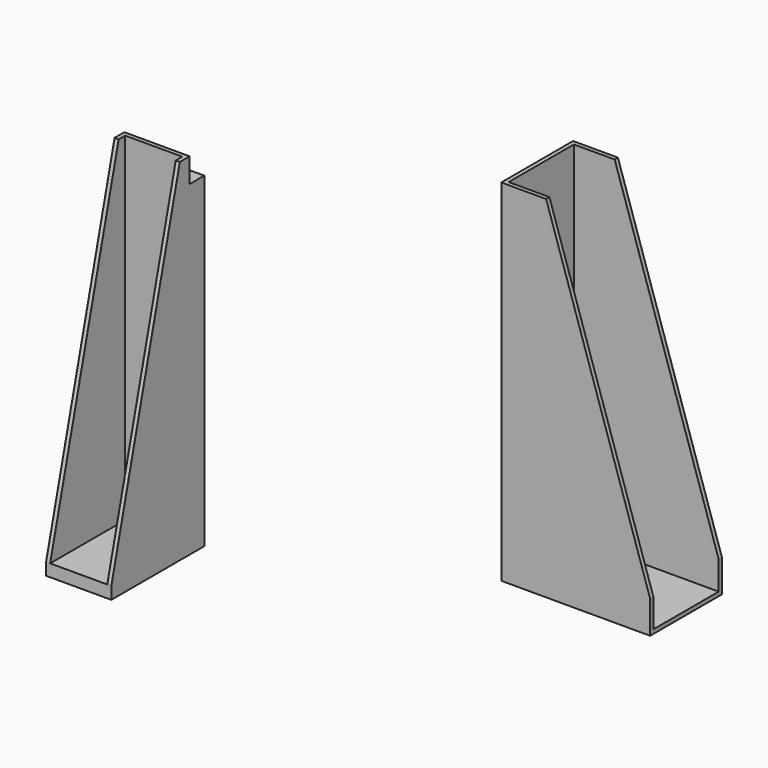
from build123d import *

# Parameters (mm, degrees)
F0_W      = 406.4
F0_H      = 609.6
F1_DEPTH  = 2184.4
F3_W      = 355.6
F3_H      = 2108.2
F4_DEPTH  = 584.2
F5_DEPTH  = 406.4
F6_W      = 406.4
F6_H      = 2032
F7_DEPTH  = 114.3
F8_W      = 927.1
F8_H      = 558.8
F9_DEPTH  = 2184.4
F10_W     = 508
F10_H     = 2159
F11_DEPTH = 901.7
F13_DEPTH = 558.8


with BuildPart() as f1:
    # F0 (on Top) → F1 (new body)
    with BuildSketch(Plane.XY):
        with Locations((-14.205011, 75.616049)):
            Rectangle(F0_W, F0_H)
    extrude(amount=F1_DEPTH)

    # F3 (on face) → F4 (cut)
    with BuildSketch(Plane.XZ.offset(229.183951)):
        with Locations((-14.205011, 1130.3)):
            Rectangle(F3_W, F3_H)
    extrude(amount=-F4_DEPTH, mode=Mode.SUBTRACT)

    # F2 (on face) → F5 (cut)
    with BuildSketch(Plane.YZ.offset(188.994989)):
        Polygon((-229.183951, 2184.4), (-229.183951, 76.2), (304.216049, 2184.4), align=None)
    extrude(amount=-F5_DEPTH, mode=Mode.SUBTRACT)

    # F6 (on face) → F7 (join)
    with BuildSketch(Plane(origin=(0, 380.416049, 0), x_dir=(-1, 0, 0), z_dir=(0, 1, 0))):
        with Locations((14.205011, 1016)):
            Rectangle(F6_W, F6_H)
    extrude(amount=F7_DEPTH)


with BuildPart() as f9:
    # F8 (on Top) → F9 (new body)
    with BuildSketch(Plane.XY):
        with Locations((2008.211802, 1391.693504)):
            Rectangle(F8_W, F8_H)
    extrude(amount=F9_DEPTH)

    # F10 (on face) → F11 (cut)
    with BuildSketch(Plane.YZ.offset(2471.761802)):
        with Locations((1391.693504, 1104.9)):
            Rectangle(F10_W, F10_H)
    extrude(amount=-F11_DEPTH, mode=Mode.SUBTRACT)

    # F12 (on face) → F13 (cut)
    with BuildSketch(Plane(origin=(0, 1671.093504, 0), x_dir=(-1, 0, 0), z_dir=(0, 1, 0))):
        Polygon((-2471.761802, 2184.4), (-2471.761802, 203.2), (-1824.061802, 2184.4), align=None)
    extrude(amount=-F13_DEPTH, mode=Mode.SUBTRACT)


solid = Compound([f1.part, f9.part])
